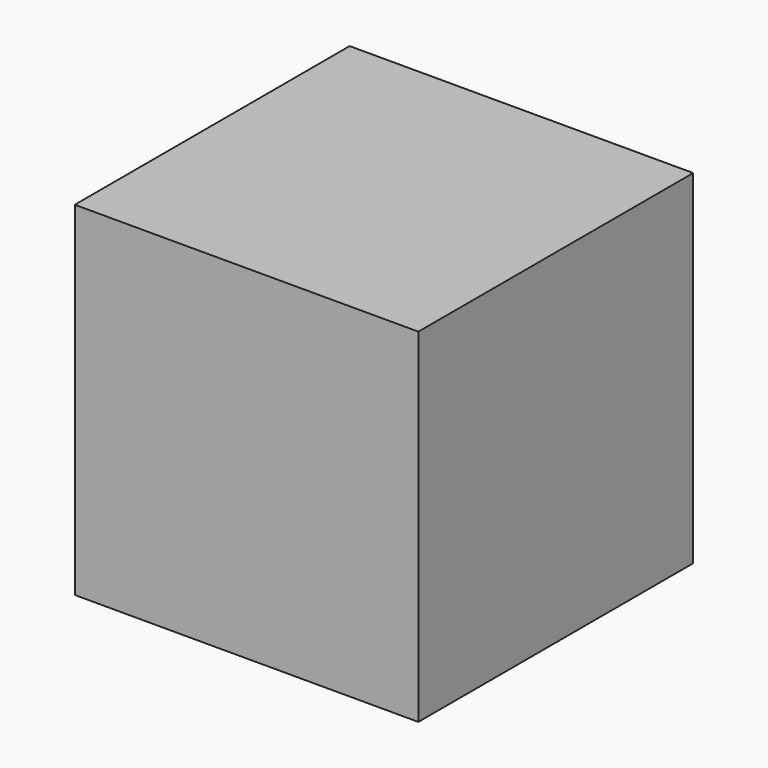
from build123d import *

# Parameters (mm, degrees)
F0_W     = 16
F0_H     = 16
F1_DEPTH = 16
F2_R     = 2
F3_DEPTH = 1
F4_R     = 2
F6_DEPTH = 1.27


with BuildPart() as f1:
    # F0 (on Front) → F1 (new body)
    with BuildSketch(Plane.XZ):
        with Locations((-24.35377, -4.09623)):
            Rectangle(F0_W, F0_H)
    extrude(amount=F1_DEPTH)

    # F2 (on face) → F3 (cut)
    with BuildSketch(Plane(origin=(0, 0, 0), x_dir=(-1, 0, 0), z_dir=(0, 1, 0))):
        with Locations((24.35377, -4.09623)):
            Circle(F2_R)
    extrude(amount=-F3_DEPTH, mode=Mode.SUBTRACT)

    # F4 (on face) → F6 (cut)
    with BuildSketch(Plane(origin=(-32.35377, 0, 0), x_dir=(0, -1, 0), z_dir=(-1, 0, 0))):
        with Locations((13, -9.09623)):
            Circle(F4_R)
        with Locations((3, 0.90377)):
            Circle(F4_R)
    extrude(amount=-F6_DEPTH, mode=Mode.SUBTRACT)


solid = f1.part
